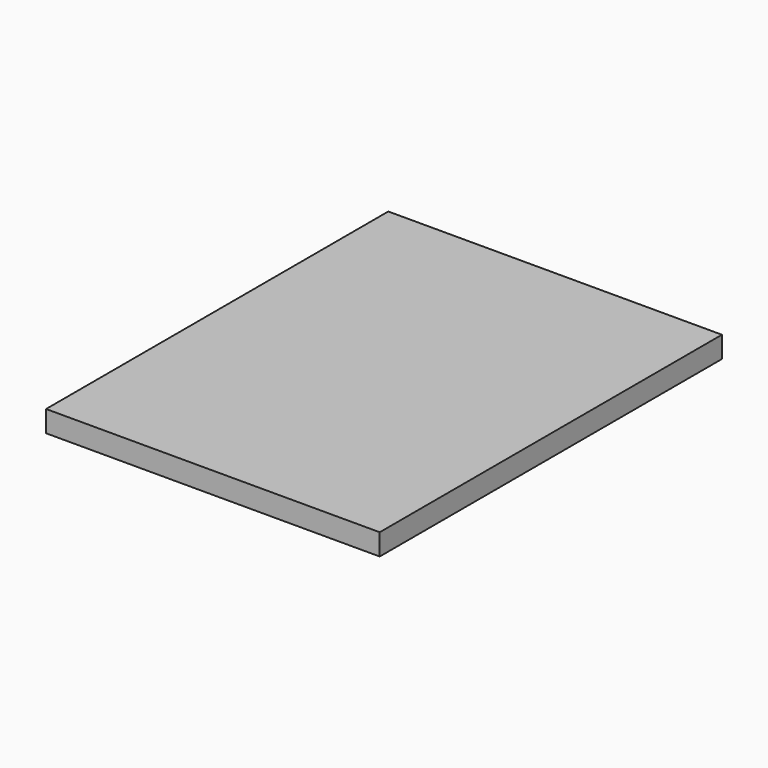
from build123d import *

# Parameters (mm, degrees)
SKETCH_W  = 78
SKETCH_H  = 100
PAD_DEPTH = 5


with BuildPart() as part:
    # Sketch → Pad (new body)
    with BuildSketch(Plane.XY):
        Rectangle(SKETCH_W, SKETCH_H)
    extrude(amount=PAD_DEPTH)


solid = part.part
